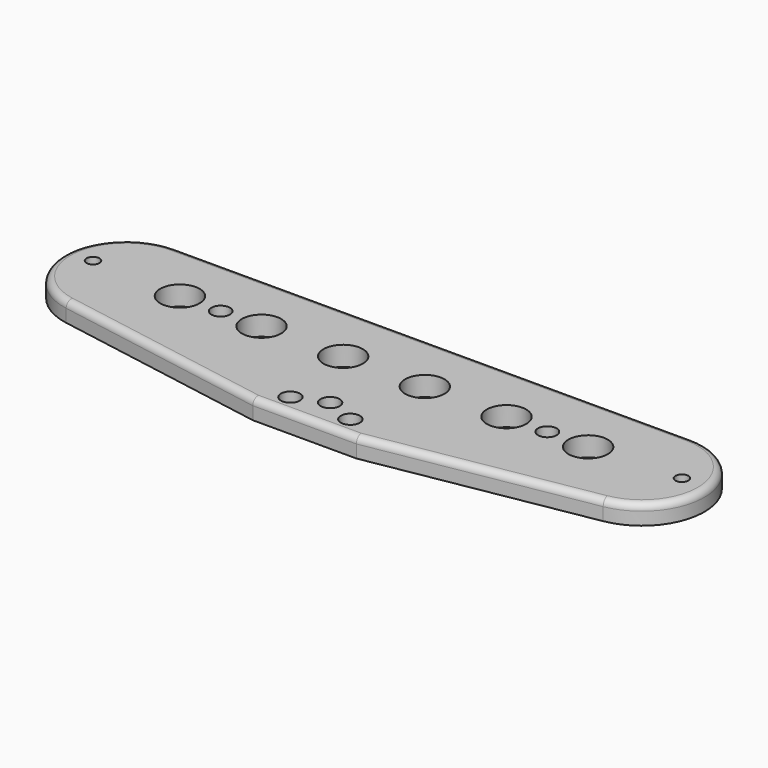
from build123d import *

# Parameters (mm, degrees)
F0_R     = 1.1684
F0_R_2   = 2.413
F0_R_3   = 1.143
F0_R_4   = 0.79375
F1_DEPTH = 2.38125
F2_R     = 0.8128


with BuildPart() as f1:
    # F0 (on Top) → F1 (new body)
    with BuildSketch(Plane.XY):
        with BuildLine():
            Line((31.5976, 7.6708), (0, 7.6708))
            Line((0, 7.6708), (-31.5976, 7.6708))
            ThreePointArc((-31.5976, 7.6708), (-39.240111, 0.658177), (-32.909099, -7.557853))
            Line((-32.909099, -7.557853), (-6.35, -12.1666))
            Line((-6.35, -12.1666), (6.35, -12.1666))
            Line((6.35, -12.1666), (32.909099, -7.557853))
            ThreePointArc((32.909099, -7.557853), (39.240111, 0.658177), (31.5976, 7.6708))
        make_face()
        with Locations((-3.673187, -9.745723)):
            Circle(F0_R, mode=Mode.SUBTRACT)
        with Locations((3.673187, -9.745723)):
            Circle(F0_R, mode=Mode.SUBTRACT)
        with Locations((0, -8.259213)):
            Circle(F0_R, mode=Mode.SUBTRACT)
        with Locations((-25.019, 0)):
            Circle(F0_R_2, mode=Mode.SUBTRACT)
        with Locations((-20.0152, 0)):
            Circle(F0_R_3, mode=Mode.SUBTRACT)
        with Locations((-36.0934, 0.5334)):
            Circle(F0_R_4, mode=Mode.SUBTRACT)
        with Locations((-15.0114, 0)):
            Circle(F0_R_2, mode=Mode.SUBTRACT)
        with Locations((-5.0038, 0)):
            Circle(F0_R_2, mode=Mode.SUBTRACT)
        with Locations((5.0038, 0)):
            Circle(F0_R_2, mode=Mode.SUBTRACT)
        with Locations((15.0114, 0)):
            Circle(F0_R_2, mode=Mode.SUBTRACT)
        with Locations((20.0152, 0)):
            Circle(F0_R_3, mode=Mode.SUBTRACT)
        with Locations((25.019, 0)):
            Circle(F0_R_2, mode=Mode.SUBTRACT)
        with Locations((36.0934, 0.5334)):
            Circle(F0_R_4, mode=Mode.SUBTRACT)
    extrude(amount=F1_DEPTH)

    # F2
    f2_edges = [f1.edges().sort_by_distance(p)[0] for p in [
        (-39.240111, 0.658177, 2.38125),
        (-19.629549, -9.862227, 2.38125),
        (0, -12.1666, 2.38125),
    ]]
    fillet(f2_edges, radius=F2_R)


solid = f1.part
